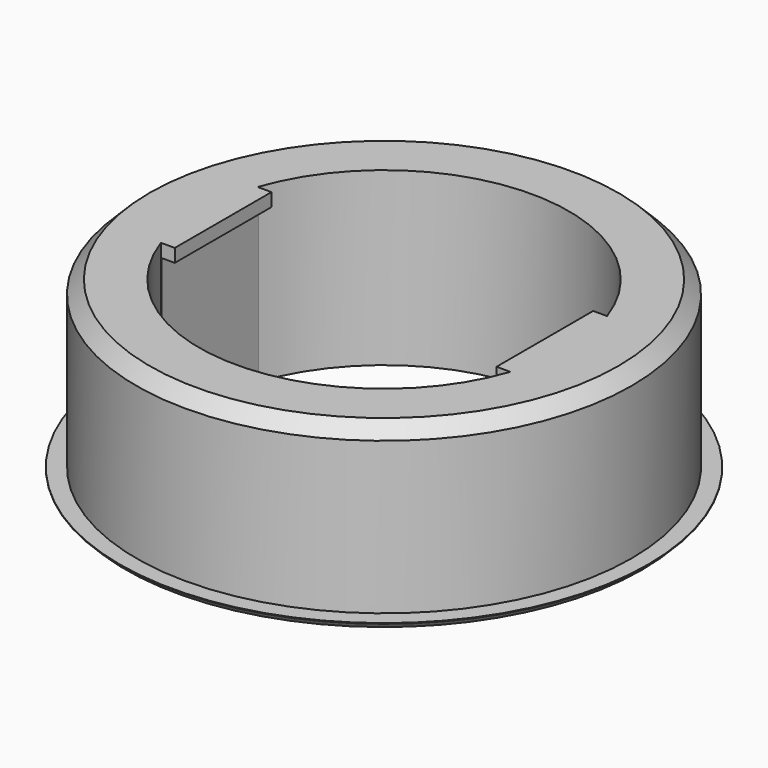
from build123d import *

# Parameters (mm, degrees)
SKETCH_R        = 40
PAD_DEPTH       = 26
SKETCH001_R     = 40
SKETCH001_R_2   = 37.5
POCKET_DEPTH    = 26
SKETCH002_W     = 18.3
SKETCH002_H     = 2
PAD001_DEPTH    = 2
SKETCH003_W     = 18.3
SKETCH003_H     = 2
PAD002_DEPTH    = 2
CHAMFER_SIZE    = 2
CHAMFER001_SIZE = 0.9


with BuildPart() as part:
    # Sketch → Pad (new body)
    with BuildSketch(Plane.XY):
        Circle(SKETCH_R)
        with BuildLine():
            ThreePointArc((26.462757, 9.15), (0, 28), (-26.462757, 9.15))
            Line((-26.362757, 9.15), (-26.462757, 9.15))
            Line((-26.362757, -9.15), (-26.362757, 9.15))
            Line((-26.462757, -9.15), (-26.362757, -9.15))
            ThreePointArc((-26.462757, -9.15), (0, -28), (26.462757, -9.15))
            Line((26.462757, -9.15), (26.362757, -9.15))
            Line((26.362757, -9.15), (26.362757, 9.15))
            Line((26.362757, 9.15), (26.462757, 9.15))
        make_face(mode=Mode.SUBTRACT)
    extrude(amount=PAD_DEPTH)

    # Sketch001 → Pocket (cut)
    with BuildSketch(Plane.XY.offset(27)):
        Circle(SKETCH001_R)
        Circle(SKETCH001_R_2, mode=Mode.SUBTRACT)
    extrude(amount=-POCKET_DEPTH, mode=Mode.SUBTRACT)

    # Sketch002 (on Face10 of Pocket) → Pad001 (join)
    with BuildSketch(Plane.YZ.offset(-26.362757)):
        with Locations((0, 25)):
            Rectangle(SKETCH002_W, SKETCH002_H)
    extrude(amount=PAD001_DEPTH)

    # Sketch003 (on Face6 of Pad001) → Pad002 (join)
    with BuildSketch(Plane(origin=(26.362757, 0, 0), x_dir=(0, -1, 0), z_dir=(-1, 0, 0))):
        with Locations((0, 25)):
            Rectangle(SKETCH003_W, SKETCH003_H)
    extrude(amount=PAD002_DEPTH)

    # Chamfer
    chamfer_edges = [part.edges().sort_by_distance(p)[0] for p in [
        (-37.5, 0, 26),
    ]]
    chamfer(chamfer_edges, length=CHAMFER_SIZE)

    # Chamfer001
    chamfer001_edges = [part.edges().sort_by_distance(p)[0] for p in [
        (-40, 0, 0),
    ]]
    chamfer(chamfer001_edges, length=CHAMFER001_SIZE)


solid = part.part
